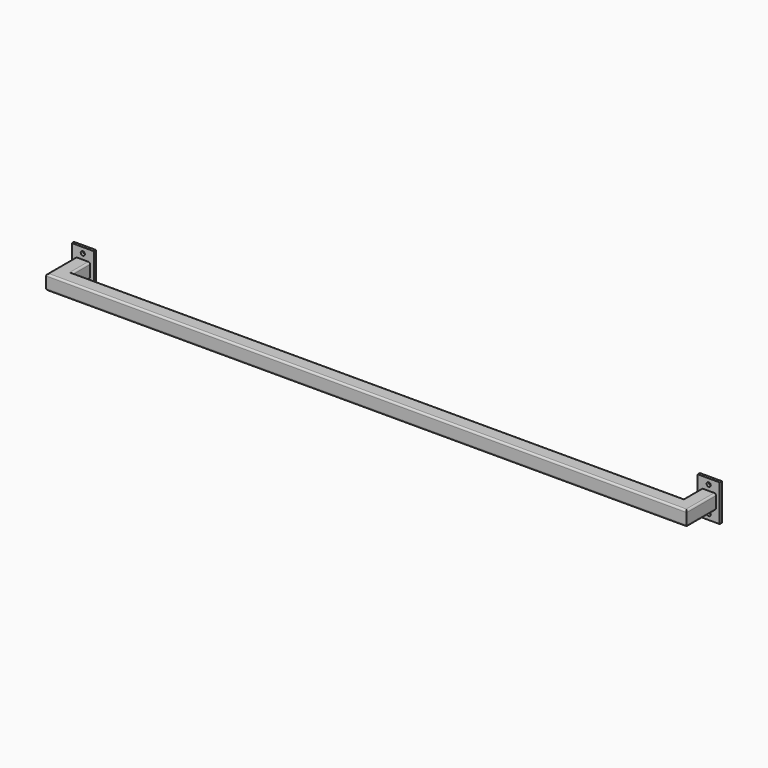
from build123d import *

# Parameters (mm, degrees)
F0_W     = 76.2
F0_H     = 127
F1_DEPTH = 9.525
F2_R     = 7.14375
F3_DEPTH = 25.4


with BuildPart() as f1:
    # F0 (on Front) → F1 (new body)
    with BuildSketch(Plane.XZ):
        with Locations((-1082.675, 0)):
            Rectangle(F0_W, F0_H)
        with BuildLine():
            ThreePointArc((-1108.075, 19.05), (-1106.2151280605, 23.5401280605), (-1101.725, 25.4))
            Line((-1101.725, 25.4), (-1063.625, 25.4))
            ThreePointArc((-1063.625, 25.4), (-1059.1348719395, 23.5401280605), (-1057.275, 19.05))
            Line((-1057.275, 19.05), (-1057.275, -19.05))
            ThreePointArc((-1057.275, -19.05), (-1059.1348719395, -23.5401280605), (-1063.625, -25.4))
            Line((-1063.625, -25.4), (-1101.725, -25.4))
            ThreePointArc((-1101.725, -25.4), (-1106.2151280605, -23.5401280605), (-1108.075, -19.05))
            Line((-1108.075, -19.05), (-1108.075, 19.05))
        make_face(mode=Mode.SUBTRACT)
        with BuildLine():
            Line((-1063.625, 25.4), (-1101.725, 25.4))
            ThreePointArc((-1101.725, 25.4), (-1106.2151280605, 23.5401280605), (-1108.075, 19.05))
            Line((-1108.075, 19.05), (-1108.075, -19.05))
            ThreePointArc((-1108.075, -19.05), (-1106.2151280605, -23.5401280605), (-1101.725, -25.4))
            Line((-1101.725, -25.4), (-1063.625, -25.4))
            ThreePointArc((-1063.625, -25.4), (-1059.1348719395, -23.5401280605), (-1057.275, -19.05))
            Line((-1057.275, -19.05), (-1057.275, 19.05))
            ThreePointArc((-1057.275, 19.05), (-1059.1348719395, 23.5401280605), (-1063.625, 25.4))
        make_face()
    extrude(amount=F1_DEPTH)

    # F2 (on face) → F3 (cut)
    with BuildSketch(Plane.XZ.offset(9.525)):
        with Locations((-1082.675, 44.45)):
            Circle(F2_R)
        with Locations((-1082.675, -44.45)):
            Circle(F2_R)
    extrude(amount=-F3_DEPTH, mode=Mode.SUBTRACT)


with BuildPart() as f4_1:
    # F4: instance of F1
    add(f1.part.mirror(Plane.YZ))


with BuildPart() as f7:
    # F7: sweep along a path in F6
    with BuildLine(Plane.XY) as f7_path:
        Line((-1082.675, -9.525), (-1082.675, -111.125))
        Line((-1082.675, -111.125), (1082.675, -111.125))
        Line((1082.675, -111.125), (1082.675, -9.525))
    # F5 (on face) → F7 (sweep)
    with BuildSketch(Plane.XZ.offset(9.525)):
        with BuildLine():
            Line((-1063.625, 25.4), (-1101.725, 25.4))
            ThreePointArc((-1101.725, 25.4), (-1106.2151280605, 23.5401280605), (-1108.075, 19.05))
            Line((-1108.075, 19.05), (-1108.075, -19.05))
            ThreePointArc((-1108.075, -19.05), (-1106.2151280605, -23.5401280605), (-1101.725, -25.4))
            Line((-1101.725, -25.4), (-1063.625, -25.4))
            ThreePointArc((-1063.625, -25.4), (-1059.1348719395, -23.5401280605), (-1057.275, -19.05))
            Line((-1057.275, -19.05), (-1057.275, 19.05))
            ThreePointArc((-1057.275, 19.05), (-1059.1348719395, 23.5401280605), (-1063.625, 25.4))
        make_face()
    sweep(path=f7_path.line, transition=Transition.RIGHT)


solid = Compound([f1.part, f4_1.part, f7.part])
